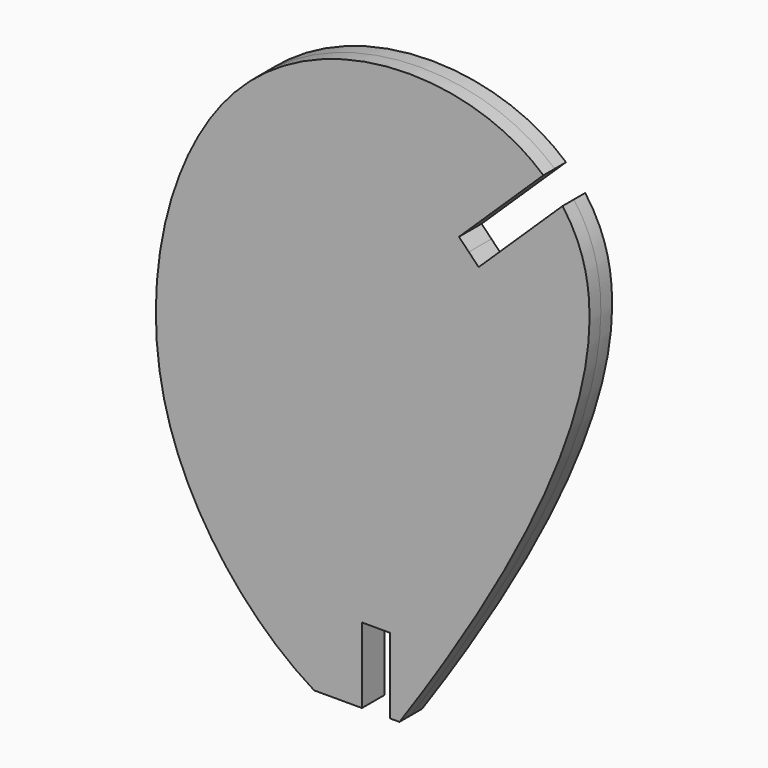
from build123d import *

# Parameters (mm, degrees)
F2_DEPTH = 1.5
F3_W     = 3
F3_H     = 16
F4_DEPTH = 25


with BuildPart() as f2:
    # F1 (on Front) → F2 (new body, symmetric)
    with BuildSketch(Plane.XZ):
        with BuildLine():
            add(Edge.make_bspline(
                [(-6.5811700188, 0), (-13.0977069694, 3.9364622169), (-27.8054503735, 20.8943752102), (-19.4177727212, 56.5137920169), (6.8547689493, 63.7937351975), (29.7863310593, 50.168239492), (17.9522950202, 22.4377531558), (2.4807401933, 0)],
                knots=[0, 0, 0, 0, 0.1910098898, 0.3977067511, 0.5751034644, 0.7310175316, 1, 1, 1, 1], degree=3))
            Line((-6.5811700188, 0), (2.4807401933, 0))
        make_face()
    extrude(amount=F2_DEPTH, both=True)

    # F3 (on face) → F4 (cut)
    with BuildSketch(Plane.XZ.offset(1.5)):
        Polygon((9.8393275162, 46.3023560938), (10.8818753603, 45.2238877389), (28.8563479428, 62.5996851417), (27.8138000986, 63.6781534966), (26.7712522544, 64.7566218516), (8.796779672, 47.3808244488), align=None)
        Rectangle(F3_W, F3_H)
    extrude(amount=-F4_DEPTH, mode=Mode.SUBTRACT)


solid = f2.part
